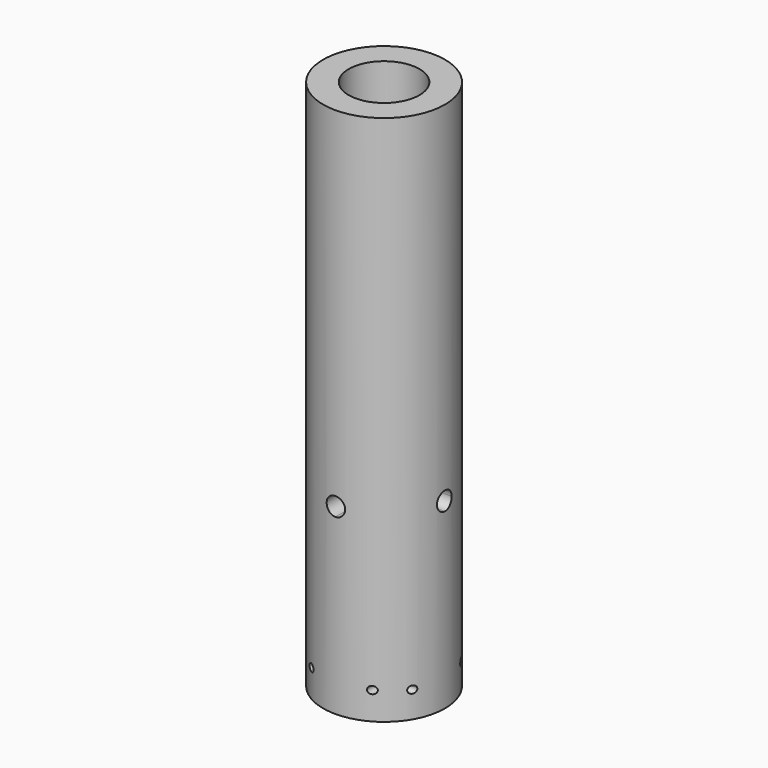
from build123d import *

# Parameters (mm, degrees)
F0_W      = 20.955
F0_H      = 182.88
F3_R      = 14.732
F4_DEPTH  = 123.952
F5_R      = 7.62
F6_R      = 12.1666
F7_DEPTH  = 38.1
F8_R      = 7.62
F11_DEPTH = 51.054
F13_R     = 1.27
F14_DEPTH = 50.8
F15_R     = 1.27
F16_DEPTH = 50.8


with BuildPart() as f2:
    # F0 (on Front) → F2 (revolve)
    with BuildSketch(Plane.XZ):
        with Locations((10.4775, 91.44)):
            Rectangle(F0_W, F0_H)
    revolve(axis=Axis((0, 0, 92.249992), (0, 0, 1)))

    # F3 (on face) → F4 (cut)
    with BuildSketch(Plane(origin=(0, 0, 0), x_dir=(1, 0, 0), z_dir=(0, 0, -1))):
        Circle(F3_R)
    extrude(amount=-F4_DEPTH, mode=Mode.SUBTRACT)

    # F5
    f5_edges = [f2.edges().sort_by_distance(p)[0] for p in [
        (-14.732, 0, 123.952),
    ]]
    fillet(f5_edges, radius=F5_R)

    # F6 (on face) → F7 (cut)
    with BuildSketch(Plane.XY.offset(182.88)):
        Circle(F6_R)
    extrude(amount=-F7_DEPTH, mode=Mode.SUBTRACT)

    # F8
    f8_edges = [f2.edges().sort_by_distance(p)[0] for p in [
        (-12.1666, 0, 144.78),
    ]]
    fillet(f8_edges, radius=F8_R)

    # F10 (on offset) → F11 (cut)
    with BuildSketch(Plane.XZ.offset(25.4)):
        with BuildLine():
            ThreePointArc((0, 59.69), (2.245064, 60.619936), (3.175, 62.865))
            ThreePointArc((3.175, 62.865), (-2.245064, 65.110064), (0, 59.69))
        make_face()
    extrude(amount=-F11_DEPTH, mode=Mode.SUBTRACT)

    # F13 (on offset) → F14 (cut)
    with BuildSketch(Plane.YZ.offset(25.4)):
        with BuildLine():
            ThreePointArc((3.175, 62.865), (-2.245064, 65.110064), (0, 59.69))
            ThreePointArc((0, 59.69), (2.245064, 60.619936), (3.175, 62.865))
        make_face()
        with BuildLine():
            ThreePointArc((11.7475, 9.0678), (10.4775, 10.3378), (9.2075, 9.0678))
            ThreePointArc((9.2075, 9.0678), (10.4775, 7.7978), (11.7475, 9.0678))
        make_face()
        with Locations((-10.4902, 9.0678)):
            Circle(F13_R)
    extrude(amount=-F14_DEPTH, mode=Mode.SUBTRACT)

    # F15 (on offset) → F16 (cut)
    with BuildSketch(Plane.XZ.offset(25.4)):
        with Locations((-10.4775, 9.525)):
            Circle(F15_R)
        with BuildLine():
            ThreePointArc((11.7475, 9.525), (10.4775, 10.795), (9.2075, 9.525))
            ThreePointArc((9.2075, 9.525), (10.4775, 8.255), (11.7475, 9.525))
        make_face()
    extrude(amount=-F16_DEPTH, mode=Mode.SUBTRACT)


solid = f2.part
